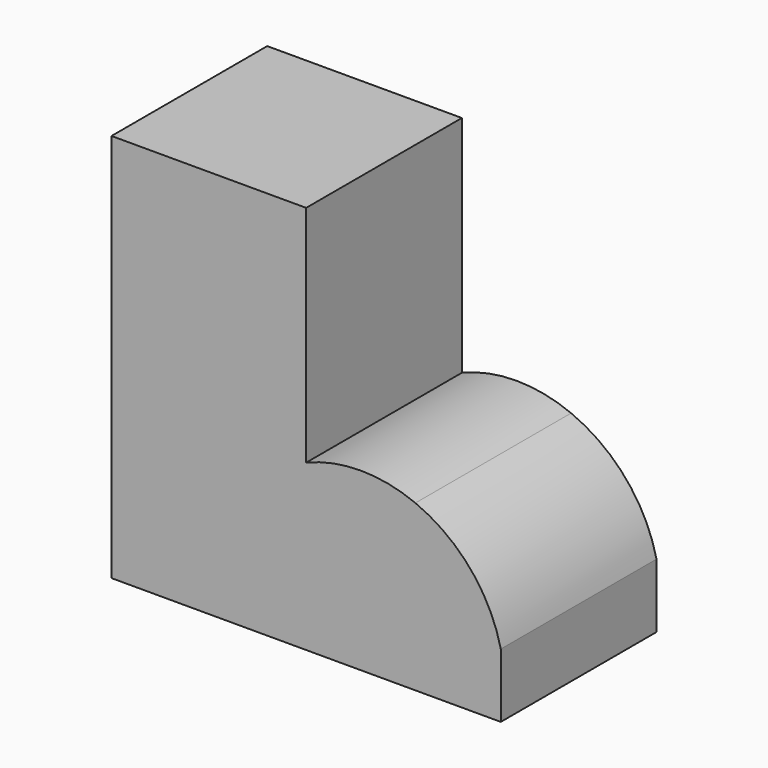
from build123d import *

# Parameters (mm, degrees)
F1_DEPTH = 25.4
F2_DEPTH = 25.4


with BuildPart() as f1:
    # F0 (on Front) → F1 (new body)
    with BuildSketch(Plane.XZ):
        with BuildLine():
            Line((-50.8, 0), (0, 0))
            Line((0, 0), (0, 8.380281))
            ThreePointArc((0, 8.380281), (-3.971442, 16.311123), (-11.144234, 21.528561))
            Line((-11.144234, 21.528561), (-25.4, 21.528561))
            Line((-25.4, 21.528561), (-25.4, 25.4))
            Line((-25.4, 25.4), (-25.4, 50.8))
            Line((-25.4, 50.8), (-50.8, 50.8))
            Line((-50.8, 50.8), (-50.8, 0))
        make_face()
    extrude(amount=F1_DEPTH)

    # F0 (on Front) → F2 (join)
    with BuildSketch(Plane.XZ):
        with BuildLine():
            Line((-25.4, 21.528561), (-11.144234, 21.528561))
            ThreePointArc((-11.144234, 21.528561), (-18.272117, 22.936541), (-25.4, 21.528561))
        make_face()
    extrude(amount=F2_DEPTH)


solid = f1.part
